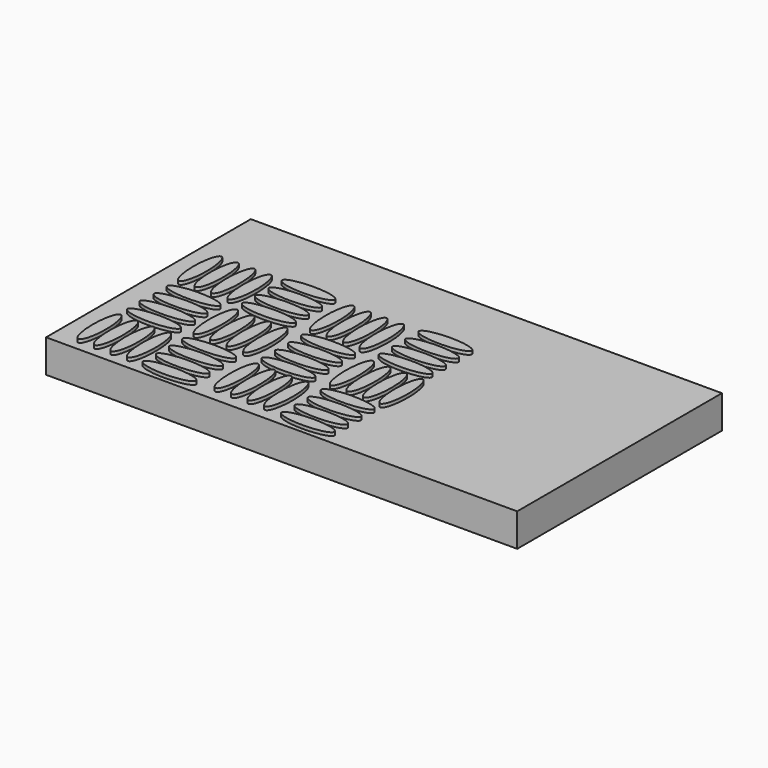
from build123d import *

# Parameters (mm, degrees)
F0_W      = 71.3058412075
F0_H      = 38.7312696548
F1_DEPTH  = 5
F3_DEPTH  = 0.5
F5_DEPTH  = 0.5
F7_DEPTH  = 0.5
F9_DEPTH  = 0.5
F11_DEPTH = 0.5
F13_DEPTH = 0.5
F15_DEPTH = 0.5
F17_DEPTH = 0.5
F19_DEPTH = 0.5


with BuildPart() as f1:
    # F0 (on Top) → F1 (new body)
    with BuildSketch(Plane.XY):
        with Locations((35.6529206038, 18.7261923566)):
            Rectangle(F0_W, F0_H)
    extrude(amount=F1_DEPTH)

    # F2 (on face) → F3 (join)
    with BuildSketch(Plane.XY.offset(5)):
        with BuildLine():
            add(Edge.make_bspline(
                [(3.8465927355, 8.6580010094), (2.1145419279, 8.6580010094), (2.9805673317, 2.6580010094), (3.8465927355, -3.3419989906), (4.7126181393, 2.6580010094), (5.5786435431, 8.6580010094), (3.8465927355, 8.6580010094)],
                knots=[0, 0, 0, 2.0943951024, 2.0943951024, 4.1887902048, 4.1887902048, 6.2831853072, 6.2831853072, 6.2831853072], degree=2, weights=[1, 0.5, 1, 0.5, 1, 0.5, 1]))
        make_face()
        with BuildLine():
            add(Edge.make_bspline(
                [(6.3465927355, 8.6580010094), (4.6145419279, 8.6580010094), (5.4805673317, 2.6580010094), (6.3465927355, -3.3419989906), (7.2126181393, 2.6580010094), (8.0786435431, 8.6580010094), (6.3465927355, 8.6580010094)],
                knots=[0, 0, 0, 2.0943951024, 2.0943951024, 4.1887902048, 4.1887902048, 6.2831853072, 6.2831853072, 6.2831853072], degree=2, weights=[1, 0.5, 1, 0.5, 1, 0.5, 1]))
        make_face()
        with BuildLine():
            add(Edge.make_bspline(
                [(8.8465927355, 8.6580010094), (7.1145419279, 8.6580010094), (7.9805673317, 2.6580010094), (8.8465927355, -3.3419989906), (9.7126181393, 2.6580010094), (10.5786435431, 8.6580010094), (8.8465927355, 8.6580010094)],
                knots=[0, 0, 0, 2.0943951024, 2.0943951024, 4.1887902048, 4.1887902048, 6.2831853072, 6.2831853072, 6.2831853072], degree=2, weights=[1, 0.5, 1, 0.5, 1, 0.5, 1]))
        make_face()
        with BuildLine():
            add(Edge.make_bspline(
                [(11.3465927355, 8.6580010094), (9.6145419279, 8.6580010094), (10.4805673317, 2.6580010094), (11.3465927355, -3.3419989906), (12.2126181393, 2.6580010094), (13.0786435431, 8.6580010094), (11.3465927355, 8.6580010094)],
                knots=[0, 0, 0, 2.0943951024, 2.0943951024, 4.1887902048, 4.1887902048, 6.2831853072, 6.2831853072, 6.2831853072], degree=2, weights=[1, 0.5, 1, 0.5, 1, 0.5, 1]))
        make_face()
        with BuildLine():
            add(Edge.make_bspline(
                [(11.5674019754, 10.3211412206), (11.5674019754, 12.0531920282), (5.5674019754, 11.1871666244), (-0.4325980246, 10.3211412206), (5.5674019754, 9.4551158168), (11.5674019754, 8.5890904131), (11.5674019754, 10.3211412206)],
                knots=[0, 0, 0, 2.0943951024, 2.0943951024, 4.1887902048, 4.1887902048, 6.2831853072, 6.2831853072, 6.2831853072], degree=2, weights=[1, 0.5, 1, 0.5, 1, 0.5, 1]))
        make_face()
        with BuildLine():
            add(Edge.make_bspline(
                [(11.6951894015, 12.8211412206), (11.6951894015, 14.5531920282), (5.5035082623, 13.6871666244), (-0.6881728768, 12.8211412206), (5.5035082623, 11.9551158168), (11.6951894015, 11.0890904131), (11.6951894015, 12.8211412206)],
                knots=[0, 0, 0, 2.0943951024, 2.0943951024, 4.1887902048, 4.1887902048, 6.2831853072, 6.2831853072, 6.2831853072], degree=2, weights=[1, 0.5, 1, 0.5, 1, 0.5, 1]))
        make_face()
        with BuildLine():
            add(Edge.make_bspline(
                [(11.5674019754, 15.3211412206), (11.5674019754, 17.0531920282), (5.5674019754, 16.1871666244), (-0.4325980246, 15.3211412206), (5.5674019754, 14.4551158168), (11.5674019754, 13.5890904131), (11.5674019754, 15.3211412206)],
                knots=[0, 0, 0, 2.0943951024, 2.0943951024, 4.1887902048, 4.1887902048, 6.2831853072, 6.2831853072, 6.2831853072], degree=2, weights=[1, 0.5, 1, 0.5, 1, 0.5, 1]))
        make_face()
        with BuildLine():
            add(Edge.make_bspline(
                [(11.5674019754, 17.8211412206), (11.5674019754, 19.5531920282), (5.5674019754, 18.6871666244), (-0.4325980246, 17.8211412206), (5.5674019754, 16.9551158168), (11.5674019754, 16.0890904131), (11.5674019754, 17.8211412206)],
                knots=[0, 0, 0, 2.0943951024, 2.0943951024, 4.1887902048, 4.1887902048, 6.2831853072, 6.2831853072, 6.2831853072], degree=2, weights=[1, 0.5, 1, 0.5, 1, 0.5, 1]))
        make_face()
    extrude(amount=F3_DEPTH)

    # F4 (on face) → F5 (join)
    with BuildSketch(Plane.XY.offset(5)):
        with BuildLine():
            add(Edge.make_bspline(
                [(3.8465927355, 27.6998964101), (2.1145419279, 27.6998964101), (2.9805673317, 21.6998964101), (3.8465927355, 15.6998964101), (4.7126181393, 21.6998964101), (5.5786435431, 27.6998964101), (3.8465927355, 27.6998964101)],
                knots=[0, 0, 0, 2.0943951024, 2.0943951024, 4.1887902048, 4.1887902048, 6.2831853072, 6.2831853072, 6.2831853072], degree=2, weights=[1, 0.5, 1, 0.5, 1, 0.5, 1]))
        make_face()
        with BuildLine():
            add(Edge.make_bspline(
                [(6.3465927355, 27.6998964101), (4.6145419279, 27.6998964101), (5.4805673317, 21.6998964101), (6.3465927355, 15.6998964101), (7.2126181393, 21.6998964101), (8.0786435431, 27.6998964101), (6.3465927355, 27.6998964101)],
                knots=[0, 0, 0, 2.0943951024, 2.0943951024, 4.1887902048, 4.1887902048, 6.2831853072, 6.2831853072, 6.2831853072], degree=2, weights=[1, 0.5, 1, 0.5, 1, 0.5, 1]))
        make_face()
        with BuildLine():
            add(Edge.make_bspline(
                [(8.8465927355, 27.6998964101), (7.1145419279, 27.6998964101), (7.9805673317, 21.6998964101), (8.8465927355, 15.6998964101), (9.7126181393, 21.6998964101), (10.5786435431, 27.6998964101), (8.8465927355, 27.6998964101)],
                knots=[0, 0, 0, 2.0943951024, 2.0943951024, 4.1887902048, 4.1887902048, 6.2831853072, 6.2831853072, 6.2831853072], degree=2, weights=[1, 0.5, 1, 0.5, 1, 0.5, 1]))
        make_face()
        with BuildLine():
            add(Edge.make_bspline(
                [(11.3465927355, 27.6998964101), (9.6145419279, 27.6998964101), (10.4805673317, 21.6998964101), (11.3465927355, 15.6998964101), (12.2126181393, 21.6998964101), (13.0786435431, 27.6998964101), (11.3465927355, 27.6998964101)],
                knots=[0, 0, 0, 2.0943951024, 2.0943951024, 4.1887902048, 4.1887902048, 6.2831853072, 6.2831853072, 6.2831853072], degree=2, weights=[1, 0.5, 1, 0.5, 1, 0.5, 1]))
        make_face()
        with BuildLine():
            add(Edge.make_bspline(
                [(21.3865742981, 0.9860221334), (21.3865742981, 2.7180729409), (15.3865742981, 1.8520475372), (9.3865742981, 0.9860221334), (15.3865742981, 0.1199967296), (21.3865742981, -0.7460286742), (21.3865742981, 0.9860221334)],
                knots=[0, 0, 0, 2.0943951024, 2.0943951024, 4.1887902048, 4.1887902048, 6.2831853072, 6.2831853072, 6.2831853072], degree=2, weights=[1, 0.5, 1, 0.5, 1, 0.5, 1]))
        make_face()
        with BuildLine():
            add(Edge.make_bspline(
                [(21.3865742981, 3.4860221334), (21.3865742981, 5.2180729409), (15.3865742981, 4.3520475372), (9.3865742981, 3.4860221334), (15.3865742981, 2.6199967296), (21.3865742981, 1.7539713258), (21.3865742981, 3.4860221334)],
                knots=[0, 0, 0, 2.0943951024, 2.0943951024, 4.1887902048, 4.1887902048, 6.2831853072, 6.2831853072, 6.2831853072], degree=2, weights=[1, 0.5, 1, 0.5, 1, 0.5, 1]))
        make_face()
        with BuildLine():
            add(Edge.make_bspline(
                [(21.3865742981, 5.9860221334), (21.3865742981, 7.7180729409), (15.3865742981, 6.8520475372), (9.3865742981, 5.9860221334), (15.3865742981, 5.1199967296), (21.3865742981, 4.2539713258), (21.3865742981, 5.9860221334)],
                knots=[0, 0, 0, 2.0943951024, 2.0943951024, 4.1887902048, 4.1887902048, 6.2831853072, 6.2831853072, 6.2831853072], degree=2, weights=[1, 0.5, 1, 0.5, 1, 0.5, 1]))
        make_face()
        with BuildLine():
            add(Edge.make_bspline(
                [(21.3865742981, 8.4860221334), (21.3865742981, 10.2180729409), (15.3865742981, 9.3520475372), (9.3865742981, 8.4860221334), (15.3865742981, 7.6199967296), (21.3865742981, 6.7539713258), (21.3865742981, 8.4860221334)],
                knots=[0, 0, 0, 2.0943951024, 2.0943951024, 4.1887902048, 4.1887902048, 6.2831853072, 6.2831853072, 6.2831853072], degree=2, weights=[1, 0.5, 1, 0.5, 1, 0.5, 1]))
        make_face()
        with BuildLine():
            add(Edge.make_bspline(
                [(24.3488363922, 8.9860221334), (22.6167855846, 8.9860221334), (23.4828109884, 2.9860221334), (24.3488363922, -3.0139778666), (25.2148617959, 2.9860221334), (26.0808871997, 8.9860221334), (24.3488363922, 8.9860221334)],
                knots=[0, 0, 0, 2.0943951024, 2.0943951024, 4.1887902048, 4.1887902048, 6.2831853072, 6.2831853072, 6.2831853072], degree=2, weights=[1, 0.5, 1, 0.5, 1, 0.5, 1]))
        make_face()
        with BuildLine():
            add(Edge.make_bspline(
                [(26.8488363922, 8.9860221334), (25.1167855846, 8.9860221334), (25.9828109884, 2.9860221334), (26.8488363922, -3.0139778666), (27.7148617959, 2.9860221334), (28.5808871997, 8.9860221334), (26.8488363922, 8.9860221334)],
                knots=[0, 0, 0, 2.0943951024, 2.0943951024, 4.1887902048, 4.1887902048, 6.2831853072, 6.2831853072, 6.2831853072], degree=2, weights=[1, 0.5, 1, 0.5, 1, 0.5, 1]))
        make_face()
        with BuildLine():
            add(Edge.make_bspline(
                [(29.3488363922, 8.9860221334), (27.6167855846, 8.9860221334), (28.4828109884, 2.9860221334), (29.3488363922, -3.0139778666), (30.2148617959, 2.9860221334), (31.0808871997, 8.9860221334), (29.3488363922, 8.9860221334)],
                knots=[0, 0, 0, 2.0943951024, 2.0943951024, 4.1887902048, 4.1887902048, 6.2831853072, 6.2831853072, 6.2831853072], degree=2, weights=[1, 0.5, 1, 0.5, 1, 0.5, 1]))
        make_face()
        with BuildLine():
            add(Edge.make_bspline(
                [(31.8488363922, 8.9860221334), (30.1167855846, 8.9860221334), (30.9828109884, 2.9860221334), (31.8488363922, -3.0139778666), (32.7148617959, 2.9860221334), (33.5808871997, 8.9860221334), (31.8488363922, 8.9860221334)],
                knots=[0, 0, 0, 2.0943951024, 2.0943951024, 4.1887902048, 4.1887902048, 6.2831853072, 6.2831853072, 6.2831853072], degree=2, weights=[1, 0.5, 1, 0.5, 1, 0.5, 1]))
        make_face()
    extrude(amount=F5_DEPTH)

    # F6 (on face) → F7 (join)
    with BuildSketch(Plane.XY.offset(5)):
        with BuildLine():
            add(Edge.make_bspline(
                [(13.775148429, 18.2582235858), (12.0430976214, 18.2582235858), (12.9091230252, 12.2582235858), (13.775148429, 6.2582235858), (14.6411738328, 12.2582235858), (15.5071992365, 18.2582235858), (13.775148429, 18.2582235858)],
                knots=[0, 0, 0, 2.0943951024, 2.0943951024, 4.1887902048, 4.1887902048, 6.2831853072, 6.2831853072, 6.2831853072], degree=2, weights=[1, 0.5, 1, 0.5, 1, 0.5, 1]))
        make_face()
        with BuildLine():
            add(Edge.make_bspline(
                [(16.275148429, 18.2582235858), (14.5430976214, 18.2582235858), (15.4091230252, 12.2582235858), (16.275148429, 6.2582235858), (17.1411738328, 12.2582235858), (18.0071992365, 18.2582235858), (16.275148429, 18.2582235858)],
                knots=[0, 0, 0, 2.0943951024, 2.0943951024, 4.1887902048, 4.1887902048, 6.2831853072, 6.2831853072, 6.2831853072], degree=2, weights=[1, 0.5, 1, 0.5, 1, 0.5, 1]))
        make_face()
        with BuildLine():
            add(Edge.make_bspline(
                [(18.775148429, 18.2582235858), (17.0430976214, 18.2582235858), (17.9091230252, 12.2582235858), (18.775148429, 6.2582235858), (19.6411738328, 12.2582235858), (20.5071992365, 18.2582235858), (18.775148429, 18.2582235858)],
                knots=[0, 0, 0, 2.0943951024, 2.0943951024, 4.1887902048, 4.1887902048, 6.2831853072, 6.2831853072, 6.2831853072], degree=2, weights=[1, 0.5, 1, 0.5, 1, 0.5, 1]))
        make_face()
        with BuildLine():
            add(Edge.make_bspline(
                [(21.275148429, 18.2582235858), (19.5430976214, 18.2582235858), (20.4091230252, 12.2582235858), (21.275148429, 6.2582235858), (22.1411738328, 12.2582235858), (23.0071992365, 18.2582235858), (21.275148429, 18.2582235858)],
                knots=[0, 0, 0, 2.0943951024, 2.0943951024, 4.1887902048, 4.1887902048, 6.2831853072, 6.2831853072, 6.2831853072], degree=2, weights=[1, 0.5, 1, 0.5, 1, 0.5, 1]))
        make_face()
    extrude(amount=F7_DEPTH)

    # F8 (on face) → F9 (join)
    with BuildSketch(Plane.XY.offset(5)):
        with BuildLine():
            add(Edge.make_bspline(
                [(21.2369163483, 19.9528168887), (21.2369163483, 21.6848676963), (15.2369163483, 20.8188422925), (9.2369163483, 19.9528168887), (15.2369163483, 19.0867914849), (21.2369163483, 18.2207660811), (21.2369163483, 19.9528168887)],
                knots=[0, 0, 0, 2.0943951024, 2.0943951024, 4.1887902048, 4.1887902048, 6.2831853072, 6.2831853072, 6.2831853072], degree=2, weights=[1, 0.5, 1, 0.5, 1, 0.5, 1]))
        make_face()
        with BuildLine():
            add(Edge.make_bspline(
                [(21.2369163483, 22.4528168887), (21.2369163483, 24.1848676963), (15.2369163483, 23.3188422925), (9.2369163483, 22.4528168887), (15.2369163483, 21.5867914849), (21.2369163483, 20.7207660811), (21.2369163483, 22.4528168887)],
                knots=[0, 0, 0, 2.0943951024, 2.0943951024, 4.1887902048, 4.1887902048, 6.2831853072, 6.2831853072, 6.2831853072], degree=2, weights=[1, 0.5, 1, 0.5, 1, 0.5, 1]))
        make_face()
        with BuildLine():
            add(Edge.make_bspline(
                [(21.2369163483, 24.9528168887), (21.2369163483, 26.6848676963), (15.2369163483, 25.8188422925), (9.2369163483, 24.9528168887), (15.2369163483, 24.0867914849), (21.2369163483, 23.2207660811), (21.2369163483, 24.9528168887)],
                knots=[0, 0, 0, 2.0943951024, 2.0943951024, 4.1887902048, 4.1887902048, 6.2831853072, 6.2831853072, 6.2831853072], degree=2, weights=[1, 0.5, 1, 0.5, 1, 0.5, 1]))
        make_face()
        with BuildLine():
            add(Edge.make_bspline(
                [(21.2369163483, 27.4528168887), (21.2369163483, 29.1848676963), (15.2369163483, 28.3188422925), (9.2369163483, 27.4528168887), (15.2369163483, 26.5867914849), (21.2369163483, 25.7207660811), (21.2369163483, 27.4528168887)],
                knots=[0, 0, 0, 2.0943951024, 2.0943951024, 4.1887902048, 4.1887902048, 6.2831853072, 6.2831853072, 6.2831853072], degree=2, weights=[1, 0.5, 1, 0.5, 1, 0.5, 1]))
        make_face()
    extrude(amount=F9_DEPTH)

    # F10 (on face) → F11 (join)
    with BuildSketch(Plane.XY.offset(5)):
        with BuildLine():
            add(Edge.make_bspline(
                [(31.8149377555, 10.4600284249), (31.8149377555, 12.1920792324), (25.8149377555, 11.3260538286), (19.8149377555, 10.4600284249), (25.8149377555, 9.5940030211), (31.8149377555, 8.7279776173), (31.8149377555, 10.4600284249)],
                knots=[0, 0, 0, 2.0943951024, 2.0943951024, 4.1887902048, 4.1887902048, 6.2831853072, 6.2831853072, 6.2831853072], degree=2, weights=[1, 0.5, 1, 0.5, 1, 0.5, 1]))
        make_face()
        with BuildLine():
            add(Edge.make_bspline(
                [(31.8149377555, 12.9600284249), (31.8149377555, 14.6920792324), (25.8149377555, 13.8260538286), (19.8149377555, 12.9600284249), (25.8149377555, 12.0940030211), (31.8149377555, 11.2279776173), (31.8149377555, 12.9600284249)],
                knots=[0, 0, 0, 2.0943951024, 2.0943951024, 4.1887902048, 4.1887902048, 6.2831853072, 6.2831853072, 6.2831853072], degree=2, weights=[1, 0.5, 1, 0.5, 1, 0.5, 1]))
        make_face()
        with BuildLine():
            add(Edge.make_bspline(
                [(31.8149377555, 15.4600284249), (31.8149377555, 17.1920792324), (25.8149377555, 16.3260538286), (19.8149377555, 15.4600284249), (25.8149377555, 14.5940030211), (31.8149377555, 13.7279776173), (31.8149377555, 15.4600284249)],
                knots=[0, 0, 0, 2.0943951024, 2.0943951024, 4.1887902048, 4.1887902048, 6.2831853072, 6.2831853072, 6.2831853072], degree=2, weights=[1, 0.5, 1, 0.5, 1, 0.5, 1]))
        make_face()
        with BuildLine():
            add(Edge.make_bspline(
                [(31.8149377555, 17.9600284249), (31.8149377555, 19.6920792324), (25.8149377555, 18.8260538286), (19.8149377555, 17.9600284249), (25.8149377555, 17.0940030211), (31.8149377555, 16.2279776173), (31.8149377555, 17.9600284249)],
                knots=[0, 0, 0, 2.0943951024, 2.0943951024, 4.1887902048, 4.1887902048, 6.2831853072, 6.2831853072, 6.2831853072], degree=2, weights=[1, 0.5, 1, 0.5, 1, 0.5, 1]))
        make_face()
    extrude(amount=F11_DEPTH)

    # F12 (on face) → F13 (join)
    with BuildSketch(Plane.XY.offset(5)):
        with BuildLine():
            add(Edge.make_bspline(
                [(23.916170001, 27.6094556749), (22.1841191935, 27.6094556749), (23.0501445972, 21.6094556749), (23.916170001, 15.6094556749), (24.7821954048, 21.6094556749), (25.6482208086, 27.6094556749), (23.916170001, 27.6094556749)],
                knots=[0, 0, 0, 2.0943951024, 2.0943951024, 4.1887902048, 4.1887902048, 6.2831853072, 6.2831853072, 6.2831853072], degree=2, weights=[1, 0.5, 1, 0.5, 1, 0.5, 1]))
        make_face()
        with BuildLine():
            add(Edge.make_bspline(
                [(26.416170001, 27.6094556749), (24.6841191935, 27.6094556749), (25.5501445972, 21.6094556749), (26.416170001, 15.6094556749), (27.2821954048, 21.6094556749), (28.1482208086, 27.6094556749), (26.416170001, 27.6094556749)],
                knots=[0, 0, 0, 2.0943951024, 2.0943951024, 4.1887902048, 4.1887902048, 6.2831853072, 6.2831853072, 6.2831853072], degree=2, weights=[1, 0.5, 1, 0.5, 1, 0.5, 1]))
        make_face()
        with BuildLine():
            add(Edge.make_bspline(
                [(28.916170001, 27.6094556749), (27.1841191935, 27.6094556749), (28.0501445972, 21.6094556749), (28.916170001, 15.6094556749), (29.7821954048, 21.6094556749), (30.6482208086, 27.6094556749), (28.916170001, 27.6094556749)],
                knots=[0, 0, 0, 2.0943951024, 2.0943951024, 4.1887902048, 4.1887902048, 6.2831853072, 6.2831853072, 6.2831853072], degree=2, weights=[1, 0.5, 1, 0.5, 1, 0.5, 1]))
        make_face()
        with BuildLine():
            add(Edge.make_bspline(
                [(31.416170001, 27.6094556749), (29.6841191935, 27.6094556749), (30.5501445972, 21.6094556749), (31.416170001, 15.6094556749), (32.2821954048, 21.6094556749), (33.1482208086, 27.6094556749), (31.416170001, 27.6094556749)],
                knots=[0, 0, 0, 2.0943951024, 2.0943951024, 4.1887902048, 4.1887902048, 6.2831853072, 6.2831853072, 6.2831853072], degree=2, weights=[1, 0.5, 1, 0.5, 1, 0.5, 1]))
        make_face()
    extrude(amount=F13_DEPTH)

    # F14 (on face) → F15 (join)
    with BuildSketch(Plane.XY.offset(5)):
        with BuildLine():
            add(Edge.make_bspline(
                [(42.3358970284, 1.0043814545), (42.3358970284, 2.7364322621), (36.3358970284, 1.8704068583), (30.3358970284, 1.0043814545), (36.3358970284, 0.1383560508), (42.3358970284, -0.727669353), (42.3358970284, 1.0043814545)],
                knots=[0, 0, 0, 2.0943951024, 2.0943951024, 4.1887902048, 4.1887902048, 6.2831853072, 6.2831853072, 6.2831853072], degree=2, weights=[1, 0.5, 1, 0.5, 1, 0.5, 1]))
        make_face()
        with BuildLine():
            add(Edge.make_bspline(
                [(42.3358970284, 3.5043814545), (42.3358970284, 5.2364322621), (36.3358970284, 4.3704068583), (30.3358970284, 3.5043814545), (36.3358970284, 2.6383560508), (42.3358970284, 1.772330647), (42.3358970284, 3.5043814545)],
                knots=[0, 0, 0, 2.0943951024, 2.0943951024, 4.1887902048, 4.1887902048, 6.2831853072, 6.2831853072, 6.2831853072], degree=2, weights=[1, 0.5, 1, 0.5, 1, 0.5, 1]))
        make_face()
        with BuildLine():
            add(Edge.make_bspline(
                [(42.3358970284, 6.0043814545), (42.3358970284, 7.7364322621), (36.3358970284, 6.8704068583), (30.3358970284, 6.0043814545), (36.3358970284, 5.1383560508), (42.3358970284, 4.272330647), (42.3358970284, 6.0043814545)],
                knots=[0, 0, 0, 2.0943951024, 2.0943951024, 4.1887902048, 4.1887902048, 6.2831853072, 6.2831853072, 6.2831853072], degree=2, weights=[1, 0.5, 1, 0.5, 1, 0.5, 1]))
        make_face()
        with BuildLine():
            add(Edge.make_bspline(
                [(42.3358970284, 8.5043814545), (42.3358970284, 10.2364322621), (36.3358970284, 9.3704068583), (30.3358970284, 8.5043814545), (36.3358970284, 7.6383560508), (42.3358970284, 6.772330647), (42.3358970284, 8.5043814545)],
                knots=[0, 0, 0, 2.0943951024, 2.0943951024, 4.1887902048, 4.1887902048, 6.2831853072, 6.2831853072, 6.2831853072], degree=2, weights=[1, 0.5, 1, 0.5, 1, 0.5, 1]))
        make_face()
    extrude(amount=F15_DEPTH)

    # F16 (on face) → F17 (join)
    with BuildSketch(Plane.XY.offset(5)):
        with BuildLine():
            add(Edge.make_bspline(
                [(34.541555047, 18.0463737771), (32.8095042395, 18.0463737771), (33.6755296433, 12.0463737771), (34.541555047, 6.0463737771), (35.4075804508, 12.0463737771), (36.2736058546, 18.0463737771), (34.541555047, 18.0463737771)],
                knots=[0, 0, 0, 2.0943951024, 2.0943951024, 4.1887902048, 4.1887902048, 6.2831853072, 6.2831853072, 6.2831853072], degree=2, weights=[1, 0.5, 1, 0.5, 1, 0.5, 1]))
        make_face()
        with BuildLine():
            add(Edge.make_bspline(
                [(37.041555047, 18.0463737771), (35.3095042395, 18.0463737771), (36.1755296433, 12.0463737771), (37.041555047, 6.0463737771), (37.9075804508, 12.0463737771), (38.7736058546, 18.0463737771), (37.041555047, 18.0463737771)],
                knots=[0, 0, 0, 2.0943951024, 2.0943951024, 4.1887902048, 4.1887902048, 6.2831853072, 6.2831853072, 6.2831853072], degree=2, weights=[1, 0.5, 1, 0.5, 1, 0.5, 1]))
        make_face()
        with BuildLine():
            add(Edge.make_bspline(
                [(39.541555047, 18.0463737771), (37.8095042395, 18.0463737771), (38.6755296433, 12.0463737771), (39.541555047, 6.0463737771), (40.4075804508, 12.0463737771), (41.2736058546, 18.0463737771), (39.541555047, 18.0463737771)],
                knots=[0, 0, 0, 2.0943951024, 2.0943951024, 4.1887902048, 4.1887902048, 6.2831853072, 6.2831853072, 6.2831853072], degree=2, weights=[1, 0.5, 1, 0.5, 1, 0.5, 1]))
        make_face()
        with BuildLine():
            add(Edge.make_bspline(
                [(42.041555047, 18.0463737771), (40.3095042395, 18.0463737771), (41.1755296433, 12.0463737771), (42.041555047, 6.0463737771), (42.9075804508, 12.0463737771), (43.7736058546, 18.0463737771), (42.041555047, 18.0463737771)],
                knots=[0, 0, 0, 2.0943951024, 2.0943951024, 4.1887902048, 4.1887902048, 6.2831853072, 6.2831853072, 6.2831853072], degree=2, weights=[1, 0.5, 1, 0.5, 1, 0.5, 1]))
        make_face()
    extrude(amount=F17_DEPTH)

    # F18 (on face) → F19 (join)
    with BuildSketch(Plane.XY.offset(5)):
        with BuildLine():
            add(Edge.make_bspline(
                [(42.0202941597, 19.8669340461), (42.0202941597, 21.5989848537), (36.0202941597, 20.7329594499), (30.0202941597, 19.8669340461), (36.0202941597, 19.0009086424), (42.0202941597, 18.1348832386), (42.0202941597, 19.8669340461)],
                knots=[0, 0, 0, 2.0943951024, 2.0943951024, 4.1887902048, 4.1887902048, 6.2831853072, 6.2831853072, 6.2831853072], degree=2, weights=[1, 0.5, 1, 0.5, 1, 0.5, 1]))
        make_face()
        with BuildLine():
            add(Edge.make_bspline(
                [(42.0202941597, 22.3669340461), (42.0202941597, 24.0989848537), (36.0202941597, 23.2329594499), (30.0202941597, 22.3669340461), (36.0202941597, 21.5009086424), (42.0202941597, 20.6348832386), (42.0202941597, 22.3669340461)],
                knots=[0, 0, 0, 2.0943951024, 2.0943951024, 4.1887902048, 4.1887902048, 6.2831853072, 6.2831853072, 6.2831853072], degree=2, weights=[1, 0.5, 1, 0.5, 1, 0.5, 1]))
        make_face()
        with BuildLine():
            add(Edge.make_bspline(
                [(42.0202941597, 24.8669340461), (42.0202941597, 26.5989848537), (36.0202941597, 25.7329594499), (30.0202941597, 24.8669340461), (36.0202941597, 24.0009086424), (42.0202941597, 23.1348832386), (42.0202941597, 24.8669340461)],
                knots=[0, 0, 0, 2.0943951024, 2.0943951024, 4.1887902048, 4.1887902048, 6.2831853072, 6.2831853072, 6.2831853072], degree=2, weights=[1, 0.5, 1, 0.5, 1, 0.5, 1]))
        make_face()
        with BuildLine():
            add(Edge.make_bspline(
                [(42.0202941597, 27.3669340461), (42.0202941597, 29.0989848537), (36.0202941597, 28.2329594499), (30.0202941597, 27.3669340461), (36.0202941597, 26.5009086424), (42.0202941597, 25.6348832386), (42.0202941597, 27.3669340461)],
                knots=[0, 0, 0, 2.0943951024, 2.0943951024, 4.1887902048, 4.1887902048, 6.2831853072, 6.2831853072, 6.2831853072], degree=2, weights=[1, 0.5, 1, 0.5, 1, 0.5, 1]))
        make_face()
    extrude(amount=F19_DEPTH)


solid = f1.part
